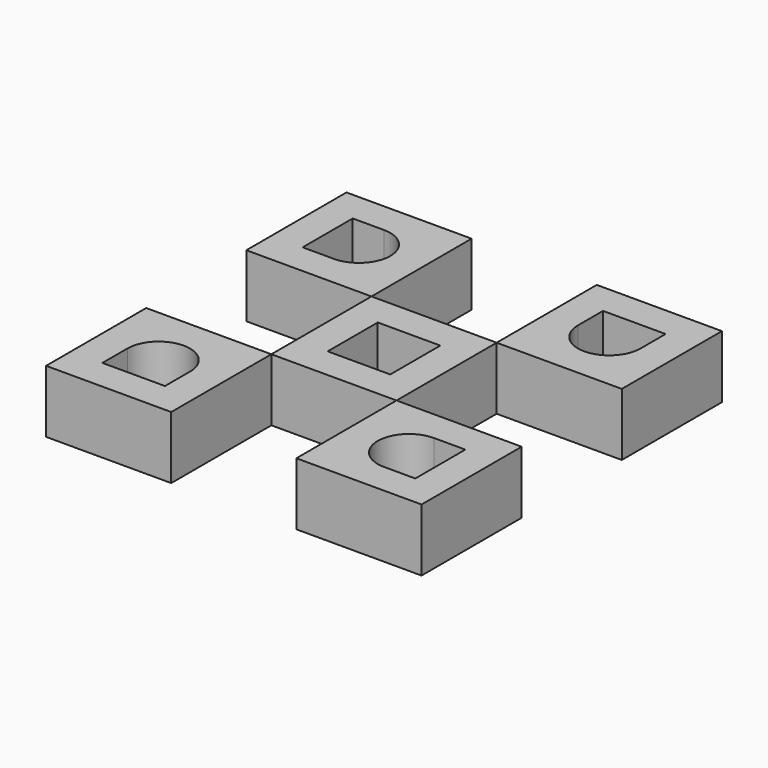
from build123d import *

# Parameters (mm, degrees)
F0_W     = 50.8
F0_H     = 50.8
F0_W_2   = 25.4
F0_H_2   = 25.4
F1_DEPTH = 25.4


with BuildPart() as f1:
    # F0 (on Top) → F1 (new body)
    with BuildSketch(Plane.XY):
        with Locations((25.4, 25.4)):
            Rectangle(F0_W, F0_H)
        with Locations((25.4, 25.4)):
            Rectangle(F0_W_2, F0_H_2, mode=Mode.SUBTRACT)
        with Locations((-25.4, 76.2)):
            Rectangle(F0_W, F0_H)
        with BuildLine():
            Line((-38.1, 88.9), (-25.4, 88.9))
            ThreePointArc((-25.4, 88.9), (-12.7, 76.2), (-25.4, 63.5))
            Line((-25.4, 63.5), (-38.1, 63.5))
            Line((-38.1, 63.5), (-38.1, 88.9))
        make_face(mode=Mode.SUBTRACT)
        with Locations((76.2, 76.2)):
            Rectangle(F0_W, F0_H)
        with BuildLine():
            Line((63.5, 88.9), (88.9, 88.9))
            Line((88.9, 88.9), (88.9, 76.2))
            ThreePointArc((88.9, 76.2), (76.2, 63.5), (63.5, 76.2))
            Line((63.5, 76.2), (63.5, 88.9))
        make_face(mode=Mode.SUBTRACT)
        with Locations((76.2, -25.4)):
            Rectangle(F0_W, F0_H)
        with BuildLine():
            Line((76.2, -12.7), (88.9, -12.7))
            Line((88.9, -12.7), (88.9, -38.1))
            Line((88.9, -38.1), (76.2, -38.1))
            ThreePointArc((76.2, -38.1), (63.5, -25.4), (76.2, -12.7))
        make_face(mode=Mode.SUBTRACT)
        with Locations((-25.4, -25.4)):
            Rectangle(F0_W, F0_H)
        with BuildLine():
            Line((-12.7, -25.4), (-12.7, -38.1))
            Line((-12.7, -38.1), (-38.1, -38.1))
            Line((-38.1, -38.1), (-38.1, -25.4))
            ThreePointArc((-38.1, -25.4), (-25.4, -12.7), (-12.7, -25.4))
        make_face(mode=Mode.SUBTRACT)
    extrude(amount=F1_DEPTH)


solid = f1.part
